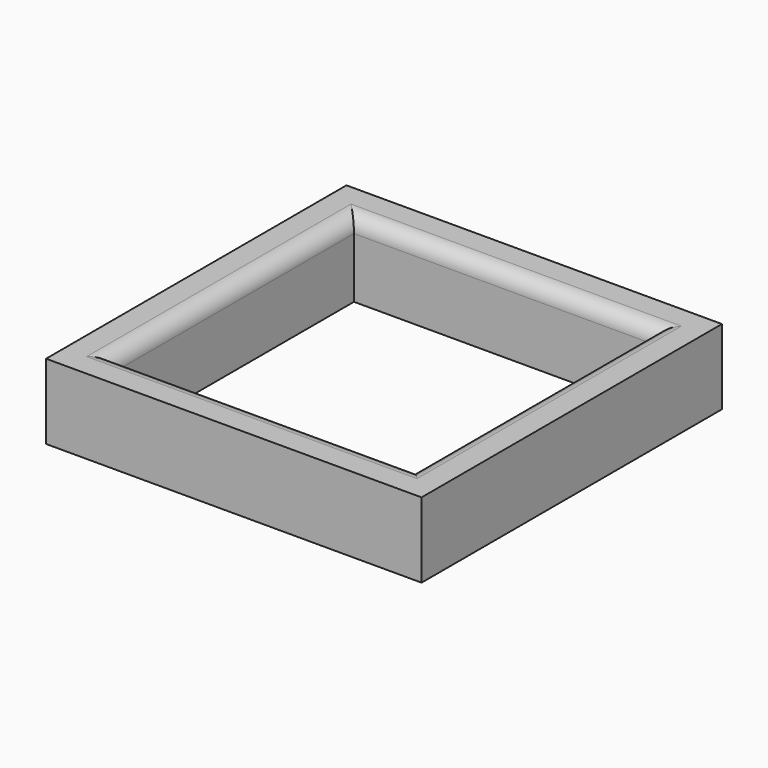
from build123d import *

# Parameters (mm, degrees)
F1_W     = 127
F1_H     = 127
F1_W_2   = 101.6
F1_H_2   = 101.6
F2_DEPTH = 25.4
F3_R     = 5.08


with BuildPart() as f2:
    # F1 (on face) → F2 (new body)
    with BuildSketch(Plane.XY):
        with Locations((8.968271, -6.068526)):
            Rectangle(F1_W, F1_H)
        with Locations((8.968271, -6.068526)):
            Rectangle(F1_W_2, F1_H_2, mode=Mode.SUBTRACT)
    extrude(amount=F2_DEPTH)

    # F3
    f3_edges = [f2.edges().sort_by_distance(p)[0] for p in [
        (8.968271, -56.868526, 25.4),
        (59.768271, -6.068526, 25.4),
        (-41.831729, -6.068526, 25.4),
        (8.968271, 44.731474, 25.4),
    ]]
    fillet(f3_edges, radius=F3_R)


solid = f2.part
